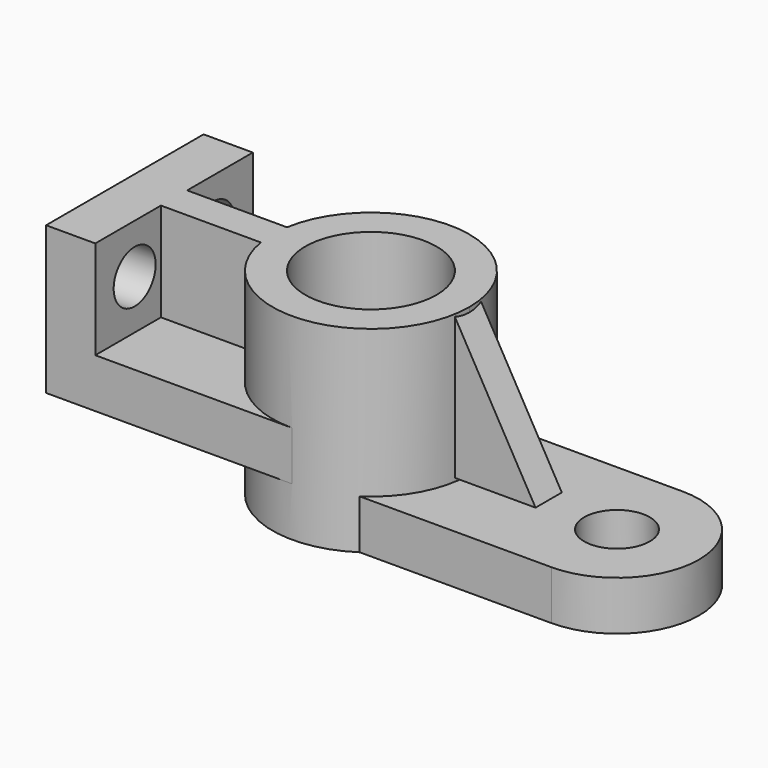
from build123d import *

# Parameters (mm, degrees)
F0_R      = 20
F1_DEPTH  = 60
F2_R      = 10
F3_DEPTH  = 15
F4_DEPTH  = 45
F6_DEPTH  = 15
F8_DEPTH  = 5
F9_R      = 8
F10_DEPTH = 15.001


with BuildPart() as f1:
    # F0 (on Top) → F1 (new body)
    with BuildSketch(Plane.XY):
        with BuildLine():
            ThreePointArc((-29.580399, -5), (2.508788, -29.894916), (30, 0))
            ThreePointArc((30, 0), (2.508788, 29.894916), (-29.580399, 5))
            ThreePointArc((-29.580399, 5), (-30, 0), (-29.580399, -5))
        make_face()
        Circle(F0_R, mode=Mode.SUBTRACT)
    extrude(amount=-F1_DEPTH)

    # F2 (on face) → F3 (join)
    with BuildSketch(Plane(origin=(0, 0, -60), x_dir=(1, 0, 0), z_dir=(0, 0, -1))):
        with BuildLine():
            Line((16.583124, -25), (75, -25))
            ThreePointArc((75, -25), (100, 0), (75, 25))
            Line((75, 25), (16.583124, 25))
            ThreePointArc((16.583124, 25), (26.43382, 14.186372), (30, 0))
            ThreePointArc((30, 0), (26.43382, -14.186372), (16.583124, -25))
        make_face()
        with Locations((75, 0)):
            Circle(F2_R, mode=Mode.SUBTRACT)
    extrude(amount=-F3_DEPTH)

    # F0 (on Top) → F4 (join)
    with BuildSketch(Plane.XY):
        with BuildLine():
            ThreePointArc((-29.580399, -5), (-30, 0), (-29.580399, 5))
            Line((-29.580399, 5), (-60, 5))
            Line((-60, 5), (-60, 30))
            Line((-60, 30), (-74.087851, 30))
            Line((-74.087851, 30), (-75, 30))
            Line((-75, 30), (-75, 0))
            Line((-75, 0), (-75, -30))
            Line((-75, -30), (-60, -30))
            Line((-60, -30), (-60, -5))
            Line((-60, -5), (-29.580399, -5))
        make_face()
    extrude(amount=-F4_DEPTH)

    # F5 (on face) → F6 (join)
    with BuildSketch(Plane(origin=(0, 0, -45), x_dir=(1, 0, 0), z_dir=(0, 0, -1))):
        with BuildLine():
            Line((0, 30), (-60, 30))
            Line((-60, 30), (-60, -30))
            Line((-60, -30), (0, -30))
            ThreePointArc((0, -30), (-30, 0), (0, 30))
        make_face()
    extrude(amount=-F6_DEPTH)

    # F7 (on Front) → F8 (join, symmetric)
    with BuildSketch(Plane.XZ):
        Polygon((29.172541, 0), (29.172541, -43.929927), (54.172541, -43.929927), align=None)
    extrude(amount=F8_DEPTH, both=True)

    # F9 (on face) → F10 (cut, through all)
    with BuildSketch(Plane.YZ.offset(-60)):
        with Locations((-15, -15)):
            Circle(F9_R)
        with Locations((15, -15)):
            Circle(F9_R)
    extrude(amount=-F10_DEPTH, mode=Mode.SUBTRACT)


solid = f1.part
